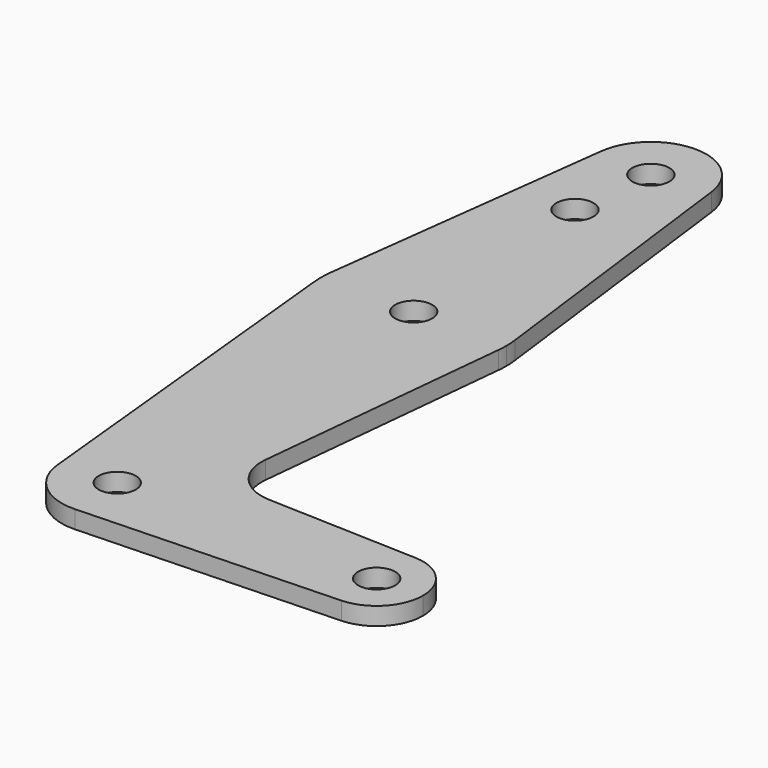
from build123d import *

# Parameters (mm, degrees)
F0_R     = 3.175
F1_DEPTH = 3.048


with BuildPart() as f1:
    # F0 (on Top) → F1 (new body)
    with BuildSketch(Plane.XY):
        with BuildLine():
            ThreePointArc((-54.183775, 70.061058), (-45.329965, 59.364128), (-35.208482, 68.870433))
            ThreePointArc((-35.208482, 68.870433), (-35.227177, 69.466916), (-35.283189, 70.061058))
            ThreePointArc((-35.283189, 70.061058), (-44.733482, 78.395433), (-54.183775, 70.061058))
        make_face()
        with Locations((-44.733482, 68.870433)):
            Circle(F0_R, mode=Mode.SUBTRACT)
        with BuildLine():
            ThreePointArc((-35.283189, 70.061058), (-35.227177, 69.466916), (-35.208482, 68.870433))
            ThreePointArc((-35.208482, 68.870433), (-45.329965, 59.364128), (-54.183775, 70.061058))
            Line((-54.183775, 70.061058), (-60.48397, 20.054808))
            ThreePointArc((-60.48397, 20.054808), (-44.733482, 33.945433), (-28.982994, 20.054808))
            Line((-28.982994, 20.054808), (-35.283189, 70.061058))
        make_face()
        with Locations((-46.320982, 54.595633)):
            Circle(F0_R, mode=Mode.SUBTRACT)
        with BuildLine():
            ThreePointArc((-28.858482, 18.070433), (-28.889641, 19.064572), (-28.982994, 20.054808))
            ThreePointArc((-28.982994, 20.054808), (-44.733482, 33.945433), (-60.48397, 20.054808))
            ThreePointArc((-60.48397, 20.054808), (-60.607226, 18.270139), (-60.528908, 16.482933))
            ThreePointArc((-60.528908, 16.482933), (-44.733482, 2.195433), (-28.938057, 16.482933))
            ThreePointArc((-28.938057, 16.482933), (-28.878388, 17.275687), (-28.858482, 18.070433))
        make_face()
        with Locations((-44.733482, 18.070433)):
            Circle(F0_R, mode=Mode.SUBTRACT)
        with BuildLine():
            ThreePointArc((-28.938057, 16.482933), (-44.733482, 2.195433), (-60.528908, 16.482933))
            Line((-60.528908, 16.482933), (-54.210737, -46.382067))
            ThreePointArc((-54.210737, -46.382067), (-45.21033, -35.91651), (-35.208482, -45.429567))
            ThreePointArc((-35.208482, -45.429567), (-37.879074, -52.043394), (-44.393304, -54.94849))
            Line((-44.393304, -54.94849), (0, -53.362003))
            ThreePointArc((0, -53.362003), (-8.220982, -45.429567), (0, -37.497131))
            Line((0, -37.497131), (-25.765882, -36.576333))
            ThreePointArc((-25.765882, -36.576333), (-31.472282, -33.858208), (-33.392296, -27.836185))
            Line((-33.392296, -27.836185), (-28.938057, 16.482933))
        make_face()
        with BuildLine():
            ThreePointArc((-35.208482, -45.429567), (-45.21033, -35.91651), (-54.210737, -46.382067))
            ThreePointArc((-54.210737, -46.382067), (-50.995866, -52.606487), (-44.393304, -54.94849))
            ThreePointArc((-44.393304, -54.94849), (-37.879074, -52.043394), (-35.208482, -45.429567))
        make_face()
        with Locations((-44.733482, -45.429567)):
            Circle(F0_R, mode=Mode.SUBTRACT)
        with BuildLine():
            ThreePointArc((0, -37.497131), (-8.220982, -45.429567), (0, -53.362003))
            ThreePointArc((0, -53.362003), (5.428525, -50.94109), (7.654018, -45.429567))
            ThreePointArc((7.654018, -45.429567), (5.428525, -39.918044), (0, -37.497131))
        make_face()
        with Locations((-0.283482, -45.429567)):
            Circle(F0_R, mode=Mode.SUBTRACT)
    extrude(amount=F1_DEPTH)


solid = f1.part
